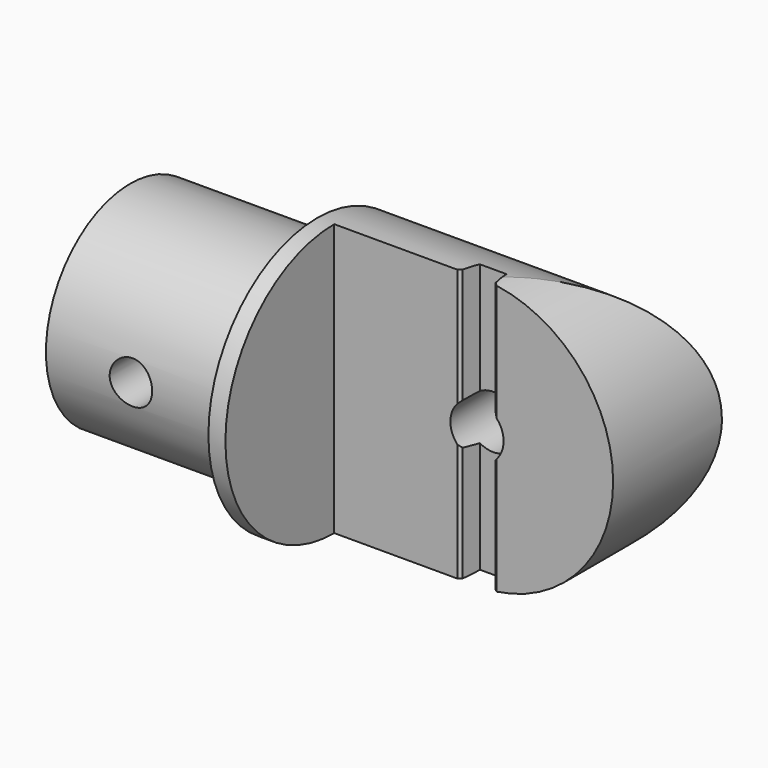
from build123d import *

# Parameters (mm, degrees)
F0_R      = 25.4
F1_DEPTH  = 3.175
F2_R      = 19.685
F3_DEPTH  = 38.1
F4_R      = 25.4
F5_DEPTH  = 58.42
F7_DEPTH  = 25.401
F10_D     = 9.9314
F12_DEPTH = 25.4
F15_DEPTH = 50.8010001
F16_SIZE  = 0.508
F18_D     = 7.9375


with BuildPart() as f1:
    # F0 (on Right) → F1 (new body)
    with BuildSketch(Plane.YZ):
        Circle(F0_R)
    extrude(amount=F1_DEPTH)

    # F2 (on face) → F3 (join)
    with BuildSketch(Plane.YZ.offset(3.175)):
        Circle(F2_R)
    extrude(amount=-F3_DEPTH)

    # F4 (on Right) → F5 (join)
    with BuildSketch(Plane.YZ):
        Circle(F4_R)
    extrude(amount=F5_DEPTH)

    # F6 (on Front) → F7 (cut, through all)
    with BuildSketch(Plane.XZ):
        Polygon((50.8, 25.4), (3.175, 25.4), (3.175, -25.4), (58.42, -25.4), (58.42, 25.4), align=None)
    extrude(amount=F7_DEPTH, mode=Mode.SUBTRACT)

    # F10 (through all)
    with Locations(Plane.XZ):
        with Locations((29.845, 0)):
            Hole(F10_D / 2)

    # F11 (on Top) → F12 (cut, symmetric)
    with BuildSketch(Plane.XY):
        Polygon((27.3418057965, 3.81), (26.67, 0), (33.02, 0), (32.3481942035, 3.81), align=None)
    extrude(amount=F12_DEPTH, both=True, mode=Mode.SUBTRACT)

    # F14 (on offset) → F15 (cut, through all)
    with BuildSketch(Plane.XZ.offset(25.4)):
        with BuildLine():
            ThreePointArc((29.845, 25.431730181), (55.276730181, 0), (29.845, -25.431730181))
            Line((29.845, -25.431730181), (29.845, -32.23392232))
            Line((29.845, -32.23392232), (58.42, -32.23392232))
            Line((58.42, -32.23392232), (58.42, 32.23392232))
            Line((58.42, 32.23392232), (29.845, 32.23392232))
            Line((29.845, 32.23392232), (29.845, 25.431730181))
        make_face()
    extrude(amount=-F15_DEPTH, mode=Mode.SUBTRACT)

    # F16
    f16_edges = [f1.edges().sort_by_distance(p)[0] for p in [
        (26.67, 0, -14.609028),
        (26.67, 0, 14.609028),
        (33.02, 0, -14.525409),
        (33.02, 0, 14.525409),
    ]]
    chamfer(f16_edges, length=F16_SIZE)

    # F18 (through all)
    with Locations(Plane.XZ.offset(25.4)):
        with Locations((-19.05, 0)):
            Hole(F18_D / 2)


solid = f1.part
